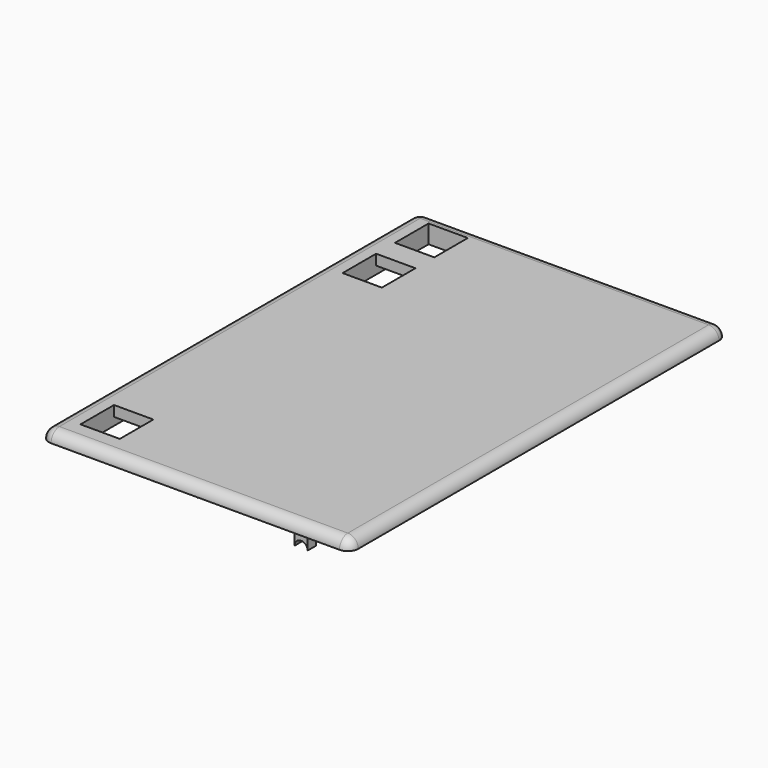
from build123d import *

# Parameters (mm, degrees)
BOX001_W        = 59
BOX001_H        = 90
BOX001_DEPTH    = 2
SKETCH003_W     = 54.8
SKETCH003_H     = 83.8
SKETCH003_W_2   = 51
SKETCH003_H_2   = 83
PAD_DEPTH       = 1.5
SKETCH002_W     = 7.5
SKETCH002_H     = 8
POCKET002_DEPTH = 2
FILLET001_R     = 1.99
PAD001_DEPTH    = 2
POCKET003_DEPTH = 1


with BuildPart() as part:
    # Box001 → Box001 (join)
    with BuildSketch(Plane.XY):
        with Locations((29.5, 45)):
            Rectangle(BOX001_W, BOX001_H)
    extrude(amount=BOX001_DEPTH)

    # Sketch003 (on Face5 of Box001) → Pad (join)
    with BuildSketch(Plane(origin=(0, 0, 0), x_dir=(1, 0, 0), z_dir=(0, 0, -1))):
        with Locations((29.5, -46)):
            Rectangle(SKETCH003_W, SKETCH003_H)
        with Locations((29.5, -46)):
            Rectangle(SKETCH003_W_2, SKETCH003_H_2, mode=Mode.SUBTRACT)
    extrude(amount=PAD_DEPTH)

    # Sketch002 (on Face5 of Box001) → Pocket002 (cut)
    with BuildSketch(Plane(origin=(0, 0, 0), x_dir=(1, 0, 0), z_dir=(0, 0, -1))):
        with Locations((7.75, -8.5)):
            Rectangle(SKETCH002_W, SKETCH002_H)
        with Locations((7.75, -71)):
            Rectangle(SKETCH002_W, SKETCH002_H)
        with Locations((7.75, -83.5)):
            Rectangle(SKETCH002_W, SKETCH002_H)
    extrude(amount=-POCKET002_DEPTH, mode=Mode.SUBTRACT)

    # Fillet001
    fillet001_edges = [part.edges().sort_by_distance(p)[0] for p in [
        (0, 45, 2),
        (29.5, 0, 2),
        (59, 45, 2),
        (29.5, 90, 2),
        (59, 0, 1),
        (0, 0, 1),
        (59, 90, 1),
        (0, 90, 1),
    ]]
    fillet(fillet001_edges, radius=FILLET001_R)

    # Sketch004 (on Face13 of Fillet001) → Pad001 (join)
    with BuildSketch(Plane.XZ.offset(-4.1)):
        with BuildLine():
            Line((19.75, 0), (28.25, 0))
            Line((28.25, 0), (28.25, -1.5))
            ThreePointArc((28.25, -1.5), (27.813589, -0.446411), (26.76, -0.01))
            Line((21.24, -0.01), (26.76, -0.01))
            ThreePointArc((21.24, -0.01), (20.186411, -0.446411), (19.75, -1.5))
            Line((19.75, 0), (19.75, -1.5))
        make_face()
        with BuildLine():
            Line((46.76, 0), (49.26, 0))
            Line((49.26, 0), (49.26, -3.5))
            ThreePointArc((49.26, -3.5), (48.01, -2.25), (46.76, -3.5))
            Line((46.76, 0), (46.76, -3.5))
        make_face()
    extrude(amount=PAD001_DEPTH)

    # Sketch005 (on Face9 of Pad) → Pocket003 (cut)
    with BuildSketch(Plane.XZ.offset(-4.1)):
        with BuildLine():
            ThreePointArc((21.25, 0), (20.18934, -0.43934), (19.75, -1.5))
            Line((19.75, -1.5), (28.25, -1.5))
            ThreePointArc((28.25, -1.5), (27.81066, -0.43934), (26.75, 0))
            Line((21.25, 0), (26.75, 0))
        make_face()
    extrude(amount=-POCKET003_DEPTH, mode=Mode.SUBTRACT)


solid = part.part
